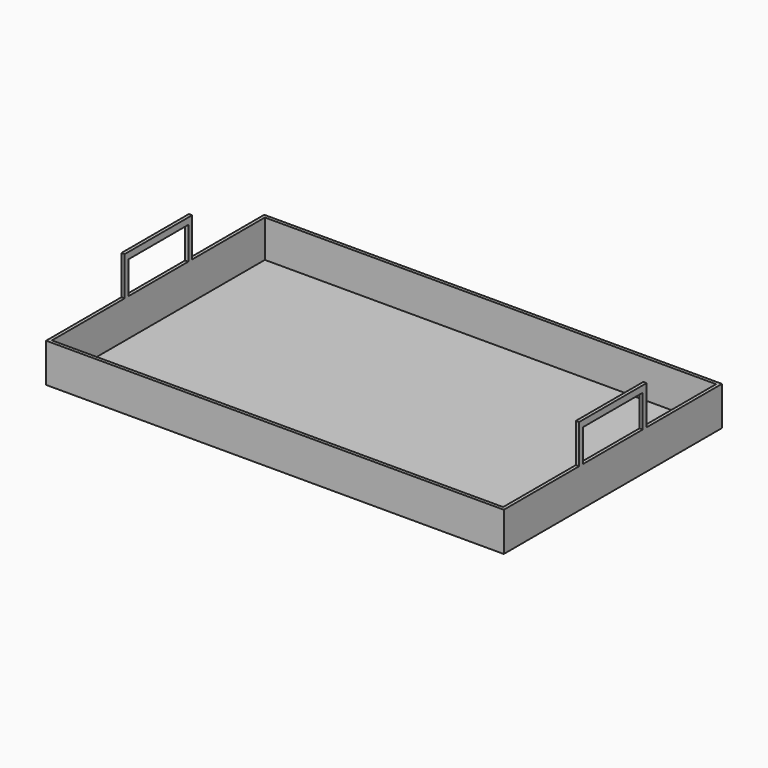
from build123d import *

# Parameters (mm, degrees)
F0_W     = 895.35
F0_H     = 533.4
F0_W_2   = 882.65
F0_H_2   = 520.7
F1_DEPTH = 76.2
F2_DEPTH = 3.175
F3_W     = 6.35
F3_H     = 82.55
F4_DEPTH = 76.2
F5_W     = 146.05
F5_H     = 63.5
F6_DEPTH = 895.351


with BuildPart() as f1:
    # F0 (on Top) → F1 (new body)
    with BuildSketch(Plane.XY):
        Rectangle(F0_W, F0_H)
        Rectangle(F0_W_2, F0_H_2, mode=Mode.SUBTRACT)
    extrude(amount=F1_DEPTH)

    # F0 (on Top) → F2 (join)
    with BuildSketch(Plane.XY):
        Rectangle(F0_W_2, F0_H_2)
    extrude(amount=F2_DEPTH)

    # F3 (on face) → F4 (join)
    with BuildSketch(Plane.XY.offset(76.2)):
        with Locations((-444.5, -41.275)):
            Rectangle(F3_W, F3_H)
        with Locations((-444.5, 41.275)):
            Rectangle(F3_W, F3_H)
        with Locations((444.5, 41.275)):
            Rectangle(F3_W, F3_H)
        with Locations((444.5, -41.275)):
            Rectangle(F3_W, F3_H)
    extrude(amount=F4_DEPTH)

    # F5 (on face) → F6 (cut, through all)
    with BuildSketch(Plane(origin=(-447.675, 0, 0), x_dir=(0, -1, 0), z_dir=(-1, 0, 0))):
        with Locations((0, 107.95)):
            Rectangle(F5_W, F5_H)
    extrude(amount=-F6_DEPTH, mode=Mode.SUBTRACT)


solid = f1.part
